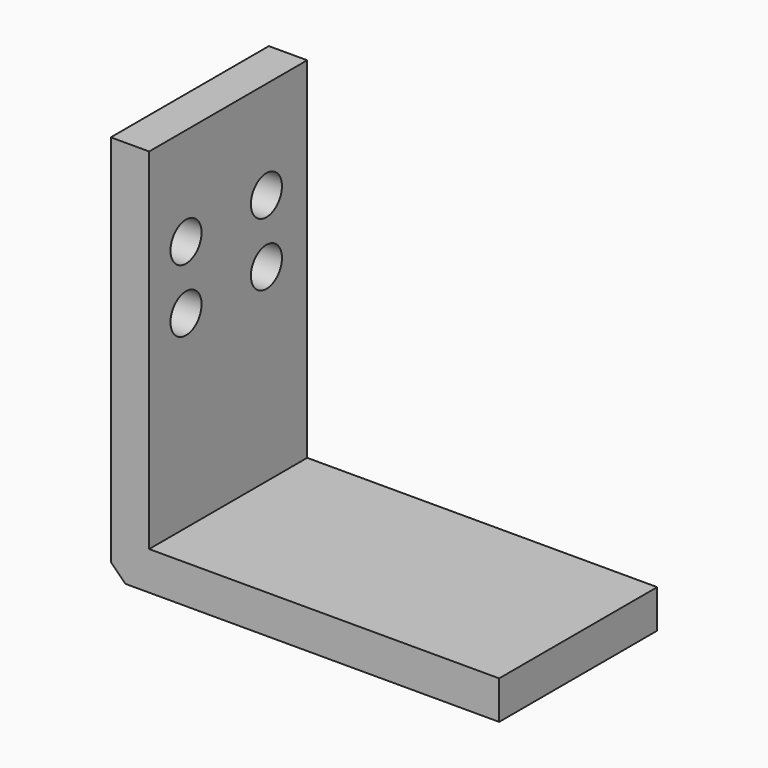
from build123d import *

# Parameters (mm, degrees)
F1_DEPTH = 40.7
F2_R     = 4
F3_DEPTH = 25


with BuildPart() as f1:
    # F0 (on Front) → F1 (new body)
    with BuildSketch(Plane.XZ):
        Polygon((7.9, 80), (0, 80), (0, 3), (3, 0), (80, 0), (80, 7.9), (7.9, 7.9), align=None)
    extrude(amount=F1_DEPTH)

    # F2 (on face) → F3 (cut)
    with BuildSketch(Plane.YZ.offset(7.9)):
        with Locations((-31.2, 59.8)):
            Circle(F2_R)
        with Locations((-31.2, 46.8)):
            Circle(F2_R)
        with Locations((-10.5, 46.8)):
            Circle(F2_R)
        with Locations((-10.5, 59.8)):
            Circle(F2_R)
    extrude(amount=-F3_DEPTH, mode=Mode.SUBTRACT)


solid = f1.part
